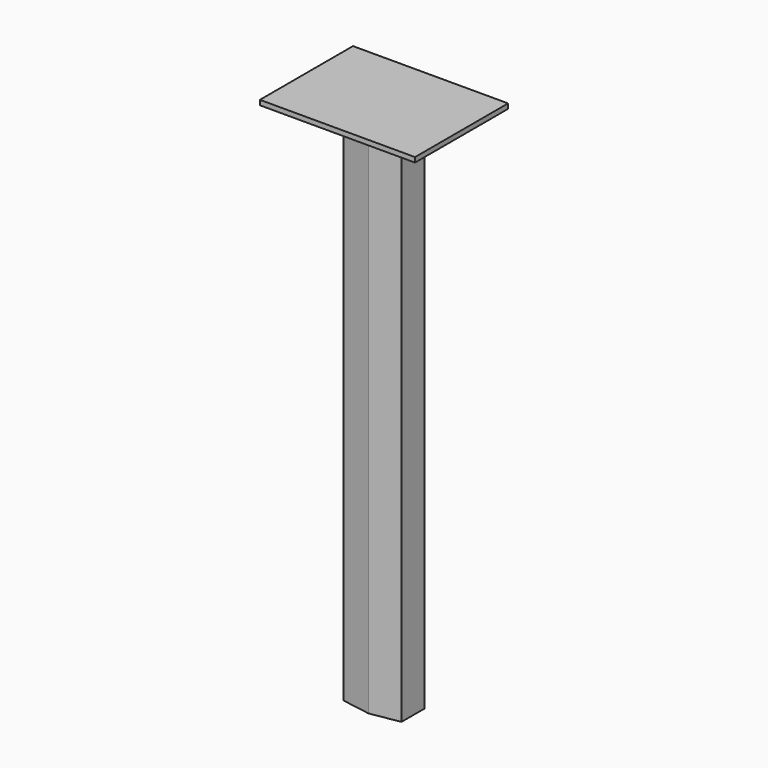
from build123d import *

# Parameters (mm, degrees)
F1_DEPTH = 692.15
F2_W     = 203.2
F2_H     = 152.4
F3_DEPTH = 6.35
F4_DEPTH = 3.175


with BuildPart() as f1:
    # F0 (on Top) → F1 (new body)
    with BuildSketch(Plane.XY):
        Polygon((38.1, 19.05), (0, 25.4), (-38.1, 19.05), (-38.1, -19.05), (0, -25.4), (38.1, -19.05), align=None)
    extrude(amount=F1_DEPTH)

    # F2 (on face) → F3 (join)
    with BuildSketch(Plane.XY.offset(692.15)):
        Rectangle(F2_W, F2_H)
        Polygon((38.1, 19.05), (38.1, -19.05), (0, -25.4), (-38.1, -19.05), (-38.1, 19.05), (0, 25.4), align=None, mode=Mode.SUBTRACT)
        Polygon((0, -25.4), (38.1, -19.05), (38.1, 19.05), (0, 25.4), (-38.1, 19.05), (-38.1, -19.05), align=None)
    extrude(amount=F3_DEPTH)

    # F4 (cut): a face of the model
    f4_faces = [f1.faces().sort_by_distance(p)[0] for p in [
        (0, 0, 0),
    ]]
    extrude(f4_faces, amount=-F4_DEPTH, mode=Mode.SUBTRACT)


solid = f1.part
